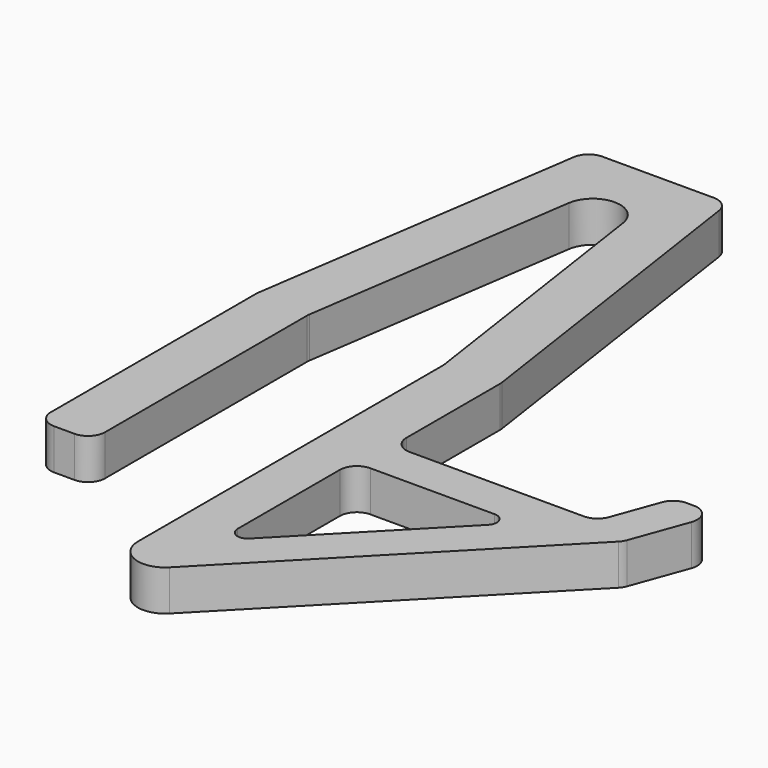
from build123d import *

# Parameters (mm, degrees)
F1_DEPTH = 6
F2_R     = 2.5
F3_R     = 1.5


with BuildPart() as f1:
    # F0 (on Top) → F1 (new body)
    with BuildSketch(Plane.XY):
        with BuildLine():
            Line((30, 0), (0, 0))
            Line((0, 0), (0, 20))
            Line((0, 20), (-7.605883, 71.455397))
            Line((-7.605883, 71.455397), (-28.394117, 71.455397))
            Line((-28.394117, 71.455397), (-36, 20))
            Line((-36, 20), (-36, -20.588065))
            Line((-36, -20.588065), (-28, -20.588065))
            Line((-28, -20.588065), (-28, 19.411935))
            Line((-28, 19.411935), (-22, 60.003195))
            ThreePointArc((-22, 60.003195), (-18, 63.455397), (-14, 60.003195))
            Line((-14, 60.003195), (-8, 19.411935))
            Line((-8, 19.411935), (-8, -37))
            ThreePointArc((-8, -37), (-5.506746, -40.705363), (-1.135141, -39.79152))
            Line((-1.135141, -39.79152), (35.638156, -2.052121))
            Line((35.638156, -2.052121), (40.024769, 10))
            Line((40.024769, 10), (33.639702, 10))
            Line((33.639702, 10), (30, 0))
        make_face()
        Polygon((-1, -31.055363), (-1, -6), (23.413963, -6), align=None, mode=Mode.SUBTRACT)
    extrude(amount=F1_DEPTH)

    # F2
    f2_edges = [f1.edges().sort_by_distance(p)[0] for p in [
        (-36, 20, 3),
        (-28.394117, 71.455397, 3),
        (-7.605883, 71.455397, 3),
        (33.639702, 10, 3),
        (40.024769, 10, 3),
        (-8, 19.411935, 3),
        (0, 20, 3),
        (0, 0, 3),
        (30, 0, 3),
        (35.638156, -2.052121, 3),
        (-1, -6, 3),
        (-36, -20.588065, 3),
        (-28, -20.588065, 3),
        (-28, 19.411935, 3),
    ]]
    fillet(f2_edges, radius=F2_R)

    # F3
    f3_edges = [f1.edges().sort_by_distance(p)[0] for p in [
        (23.413963, -6, 3),
        (-1, -31.055363, 3),
    ]]
    fillet(f3_edges, radius=F3_R)


solid = f1.part
